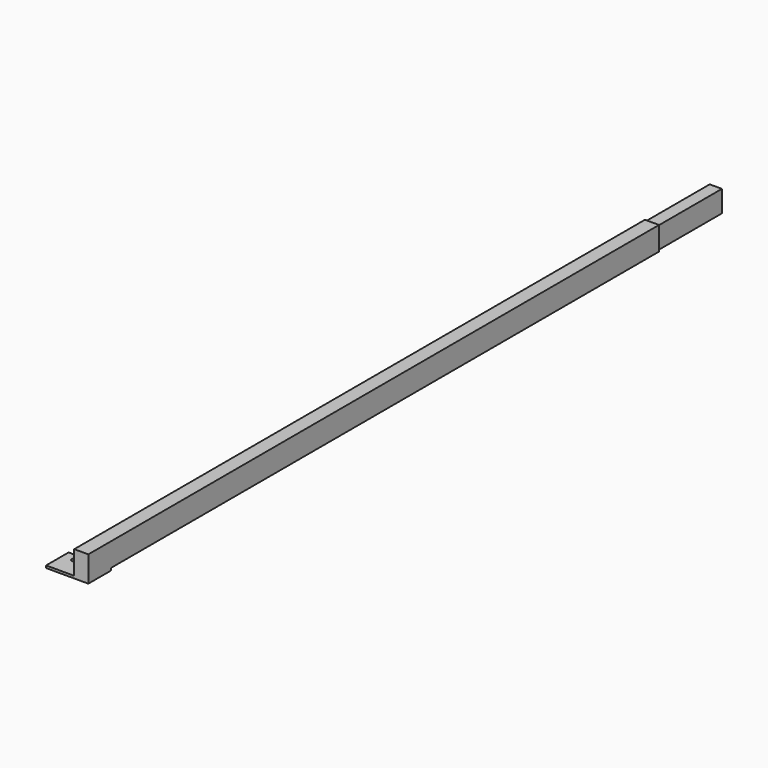
from build123d import *

# Parameters (mm, degrees)
F0_W     = 26
F0_H     = 46
F1_DEPTH = 170
F2_W     = 30
F2_H     = 50
F3_DEPTH = 1520
F4_W     = 60
F4_H     = 60
F4_R     = 6
F5_DEPTH = 5


with BuildPart() as f1:
    # F0 (on Front) → F1 (new body)
    with BuildSketch(Plane.XZ):
        Rectangle(F0_W, F0_H)
    extrude(amount=F1_DEPTH)

    # F2 (on face) → F3 (join)
    with BuildSketch(Plane.XZ.offset(170)):
        Rectangle(F2_W, F2_H)
    extrude(amount=F3_DEPTH)

    # F4 (on face) → F5 (join)
    with BuildSketch(Plane(origin=(0, 0, -25), x_dir=(1, 0, 0), z_dir=(0, 0, -1))):
        with Locations((-45, 1660)):
            Rectangle(F4_W, F4_H)
        with Locations((-50, 1645)):
            Circle(F4_R, mode=Mode.SUBTRACT)
        Polygon((15, 1690), (-15, 1690), (-15, 1630), (15, 1630), (15, 1645), align=None)
    extrude(amount=F5_DEPTH)


solid = f1.part
